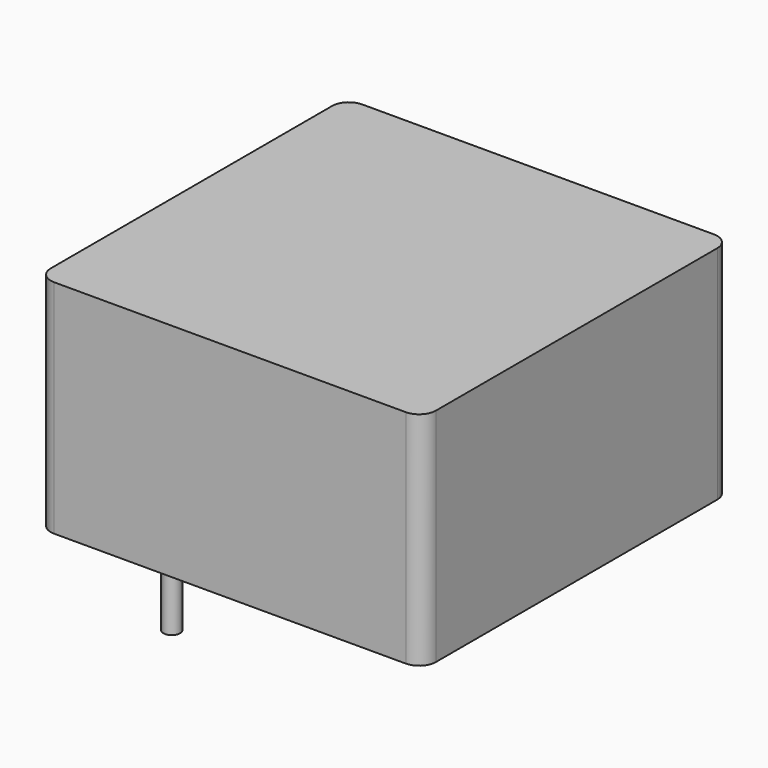
from build123d import *

# Parameters (mm, degrees)
SKETCH001_R  = 0.35
PAD001_DEPTH = 3.5
SKETCH_W     = 16.13
SKETCH_H     = 16.13
PAD_DEPTH    = 9.27
FILLET_R     = 0.7


with BuildPart() as pad001:
    # Sketch001 → Pad001 (new body)
    with BuildSketch(Plane.XY.offset(0.5)):
        Circle(SKETCH001_R)
        with Locations((7.62, 12.7)):
            Circle(SKETCH001_R)
    extrude(amount=-PAD001_DEPTH)


with BuildPart() as obj1:
    # Sketch → Pad (new body)
    with BuildSketch(Plane.XY.offset(0.1)):
        with Locations((3.81, 6.35)):
            Rectangle(SKETCH_W, SKETCH_H)
    extrude(amount=PAD_DEPTH)

    # Fillet
    fillet_edges = [obj1.edges().sort_by_distance(p)[0] for p in [
        (11.875, -1.715, 4.735),
        (11.875, 14.415, 4.735),
        (-4.255, -1.715, 4.735),
        (-4.255, 14.415, 4.735),
    ]]
    fillet(fillet_edges, radius=FILLET_R)

    # obj1: union Pad001
    add(pad001.part)


solid = obj1.part
